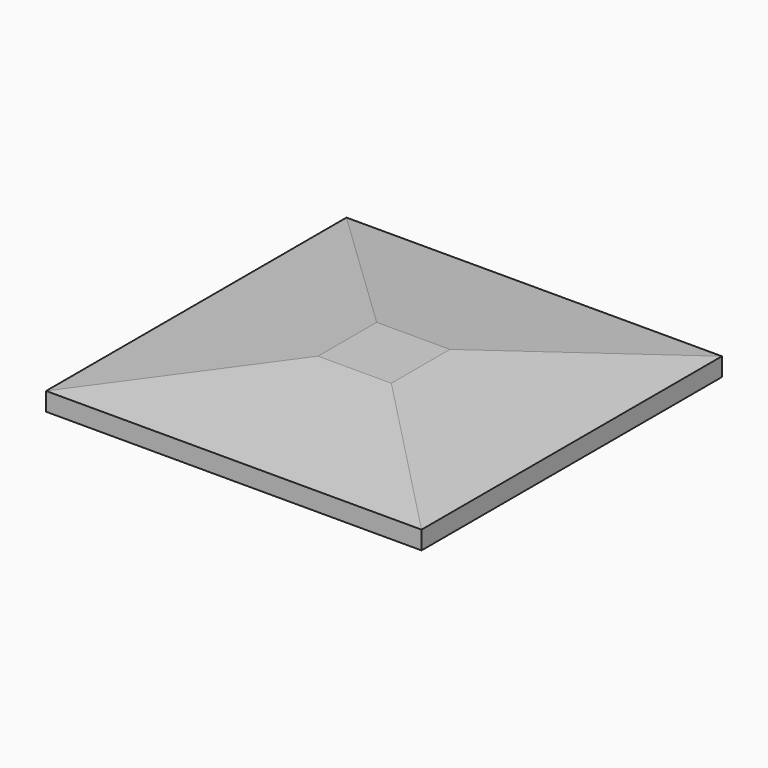
from build123d import *

# Parameters (mm, degrees)
F0_W     = 1041.4
F0_H     = 1041.4
F1_DEPTH = 50.8
F2_W     = 1041.4
F2_H     = 1041.4
F4_W     = 203.2
F4_H     = 203.2


with BuildPart() as f1:
    # F0 (on Top) → F1 (new body)
    with BuildSketch(Plane.XY):
        Rectangle(F0_W, F0_H)
    extrude(amount=F1_DEPTH)

    # F2 (on face) → F5 section 0
    with BuildSketch(Plane.XY.offset(50.8)):
        Rectangle(F2_W, F2_H)
    # F4 (on offset) → F5 section 1
    with BuildSketch(Plane.XY.offset(101.6)):
        Rectangle(F4_W, F4_H)
    loft()


solid = f1.part
